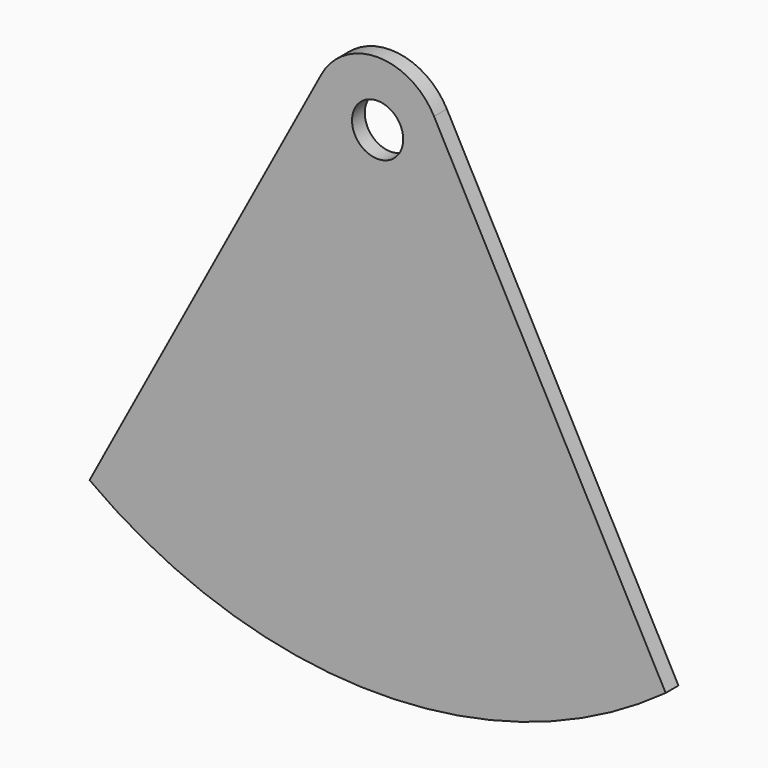
from build123d import *

# Parameters (mm, degrees)
F1_DEPTH = 5
F2_R     = 8
F3_DEPTH = 5.001


with BuildPart() as f1:
    # F0 (on Front) → F1 (new body)
    with BuildSketch(Plane.XZ):
        with BuildLine():
            Line((90, -123.110723), (17.628544, 11.946398))
            ThreePointArc((17.628544, 11.946398), (0, 22.5), (-17.628544, 11.946398))
            Line((-17.628544, 11.946398), (-90, -123.110723))
            ThreePointArc((-90, -123.110723), (0, -152.5), (90, -123.110723))
        make_face()
    extrude(amount=F1_DEPTH)

    # F2 (on face) → F3 (cut, through all)
    with BuildSketch(Plane.XZ.offset(5)):
        with Locations((0, 2.5)):
            Circle(F2_R)
    extrude(amount=-F3_DEPTH, mode=Mode.SUBTRACT)


solid = f1.part
